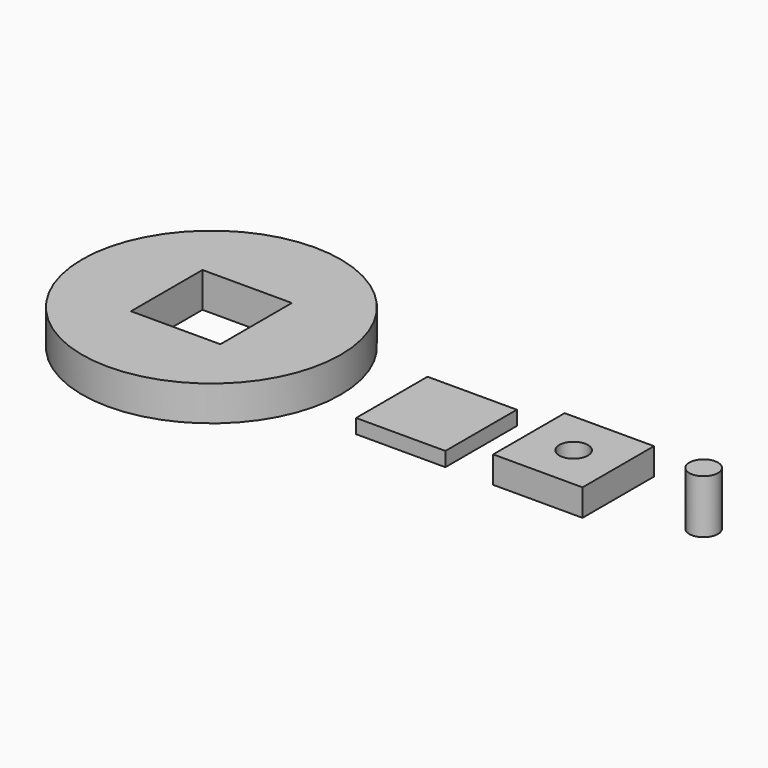
from build123d import *

# Parameters (mm, degrees)
F0_R     = 72.225
F0_W     = 49.94
F0_H     = 49.94
F1_DEPTH = 19.6
F2_W     = 49.9
F2_H     = 49.9
F3_DEPTH = 8
F4_W     = 49.9
F4_H     = 49.9
F4_R     = 8
F5_DEPTH = 15
F6_R     = 8
F7_DEPTH = 30


with BuildPart() as f1:
    # F0 (on Top) → F1 (new body)
    with BuildSketch(Plane.XY):
        Circle(F0_R)
        Rectangle(F0_W, F0_H, mode=Mode.SUBTRACT)
        Circle(F0_R)
        Rectangle(F0_W, F0_H, mode=Mode.SUBTRACT)
    extrude(amount=F1_DEPTH)


with BuildPart() as f3:
    # F2 (on Top) → F3 (new body)
    with BuildSketch(Plane.XY):
        with Locations((125.729159, 0)):
            Rectangle(F2_W, F2_H)
    extrude(amount=F3_DEPTH)


with BuildPart() as f5:
    # F4 (on Top) → F5 (new body)
    with BuildSketch(Plane.XY):
        with Locations((202.357963, 0)):
            Rectangle(F4_W, F4_H)
        with Locations((202.357963, 0)):
            Circle(F4_R, mode=Mode.SUBTRACT)
    extrude(amount=F5_DEPTH)


with BuildPart() as f7:
    # F6 (on Top) → F7 (new body)
    with BuildSketch(Plane.XY):
        with Locations((275, 0)):
            Circle(F6_R)
    extrude(amount=F7_DEPTH)


solid = Compound([f1.part, f3.part, f5.part, f7.part])
